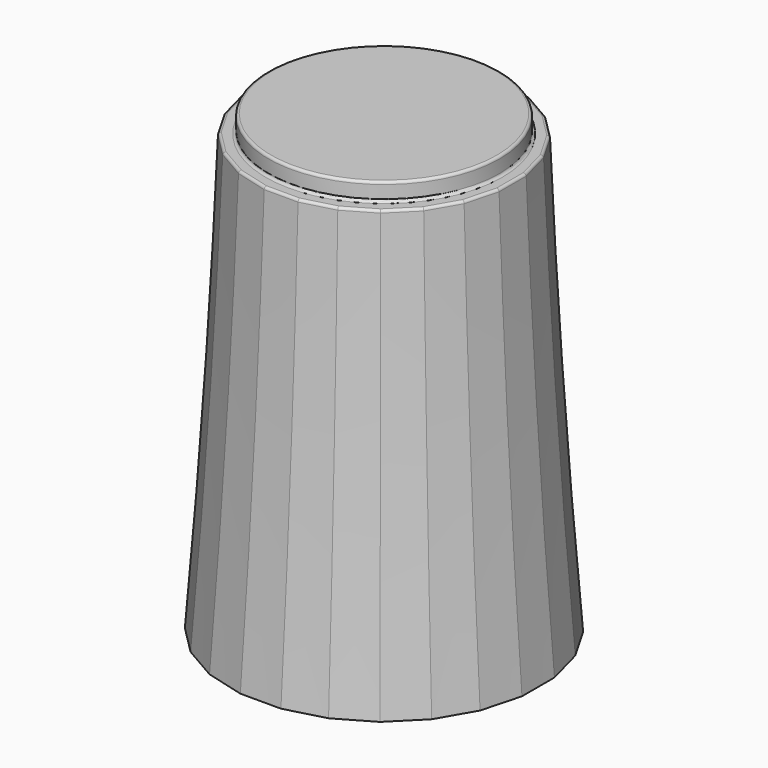
from build123d import *

# Parameters (mm, degrees)
SKETCH072_R     = 4.5
PAD018_DEPTH    = 0.7
SKETCH071_R     = 5
POCKET028_DEPTH = 1
SKETCH069_R     = 4.65
POCKET027_DEPTH = 1
POCKET029_DEPTH = 8
CHAMFER021_SIZE = 1.4
CHAMFER020_SIZE = 0.3
FILLET009_R     = 0.1


with BuildPart() as part:
    # Sketch077 → AdditiveLoft008 section 0
    with BuildSketch(Plane.XY):
        Polygon((-0.789915, 6), (-2.315914, 5.59111), (-3.684086, 4.801195), (-4.801195, 3.684086), (-5.59111, 2.315914), (-6, 0.789915), (-6, -0.789915), (-5.59111, -2.315914), (-4.801195, -3.684086), (-3.684086, -4.801195), (-2.315914, -5.59111), (-0.789915, -6), (0.789915, -6), (2.315914, -5.59111), (3.684086, -4.801195), (4.801195, -3.684086), (5.59111, -2.315914), (6, -0.789915), (6, 0.789915), (5.59111, 2.315914), (4.801195, 3.684086), (3.684086, 4.801195), (2.315914, 5.59111), (0.789915, 6), align=None)
    # Sketch076 → AdditiveLoft008 section 1
    with BuildSketch(Plane.XY.offset(7)):
        Polygon((-0.724089, 5.5), (-2.122921, 5.125184), (-3.377079, 4.401095), (-4.401095, 3.377079), (-5.125184, 2.122921), (-5.5, 0.724089), (-5.5, -0.724089), (-5.125184, -2.122921), (-4.401095, -3.377079), (-3.377079, -4.401095), (-2.122921, -5.125184), (-0.724089, -5.5), (0.724089, -5.5), (2.122921, -5.125184), (3.377079, -4.401095), (4.401095, -3.377079), (5.125184, -2.122921), (5.5, -0.724089), (5.5, 0.724089), (5.125184, 2.122921), (4.401095, 3.377079), (3.377079, 4.401095), (2.122921, 5.125184), (0.724089, 5.5), align=None)
    # Sketch078 → AdditiveLoft008 section 2
    with BuildSketch(Plane.XY.offset(17)):
        Polygon((-4.659258, 1.929928), (-5, 0.658262), (-5, -0.658262), (-4.659258, -1.929928), (-4.000996, -3.070072), (-3.070072, -4.000996), (-1.929928, -4.659258), (-0.658262, -5), (0.658262, -5), (1.929928, -4.659258), (3.070072, -4.000996), (4.000996, -3.070072), (4.659258, -1.929928), (5, -0.658262), (5, 0.658262), (4.659258, 1.929928), (4.000996, 3.070072), (3.070072, 4.000996), (1.929928, 4.659258), (0.658262, 5), (-0.658262, 5), (-1.929928, 4.659258), (-3.070072, 4.000996), (-4.000996, 3.070072), align=None)
    loft()

    # Sketch072 (on Face3 of AdditiveLoft008) → Pad018 (new body)
    with BuildSketch(Plane.XY.offset(17)):
        Circle(SKETCH072_R)
    extrude(amount=PAD018_DEPTH)

    # Sketch071 (on Face1 of Pad018) → Pocket028 (cut)
    with BuildSketch(Plane(origin=(0, 0, 0), x_dir=(1, 0, 0), z_dir=(0, 0, -1))):
        Circle(SKETCH071_R)
    extrude(amount=-POCKET028_DEPTH, mode=Mode.SUBTRACT)

    # Sketch069 (on Face28 of Pocket028) → Pocket027 (cut)
    with BuildSketch(Plane(origin=(0, 0, 1), x_dir=(1, 0, 0), z_dir=(0, 0, -1))):
        Circle(SKETCH069_R)
    extrude(amount=-POCKET027_DEPTH, mode=Mode.SUBTRACT)

    # Sketch070 (on Face32 of Pocket027) → Pocket029 (cut)
    with BuildSketch(Plane(origin=(0, 0, 2), x_dir=(1, 0, 0), z_dir=(0, 0, -1))):
        with BuildLine():
            ThreePointArc((-1.741757, 2.442598), (0, -3), (1.741757, 2.442598))
            Line((-1.741757, 2.442598), (1.741757, 2.442598))
        make_face()
    extrude(amount=-POCKET029_DEPTH, mode=Mode.SUBTRACT)

    # Chamfer021
    chamfer021_edges = [part.edges().sort_by_distance(p)[0] for p in [
        (0, 3, 2),
        (0, -2.442598, 2),
    ]]
    chamfer(chamfer021_edges, length=CHAMFER021_SIZE)

    # Chamfer020
    chamfer020_edges = [part.edges().sort_by_distance(p)[0] for p in [
        (-4.65, 0, 1),
    ]]
    chamfer(chamfer020_edges, length=CHAMFER020_SIZE)

    # Fillet009
    fillet009_edges = [part.edges().sort_by_distance(p)[0] for p in [
        (-4.5, 0, 17.7),
        (-4.829629, 1.294095, 17),
        (-4.330127, 2.5, 17),
        (-5, 0, 17),
        (-3.535534, 3.535534, 17),
        (-4.829629, -1.294095, 17),
        (-2.5, 4.330127, 17),
        (-4.330127, -2.5, 17),
        (-1.294095, 4.829629, 17),
        (-3.535534, -3.535534, 17),
        (0, 5, 17),
        (-2.5, -4.330127, 17),
        (1.294095, 4.829629, 17),
        (-1.294095, -4.829629, 17),
        (2.5, 4.330127, 17),
        (0, -5, 17),
        (3.535534, 3.535534, 17),
        (1.294095, -4.829629, 17),
        (4.330127, 2.5, 17),
        (2.5, -4.330127, 17),
        (4.829629, 1.294095, 17),
        (3.535534, -3.535534, 17),
        (5, 0, 17),
        (4.330127, -2.5, 17),
        (4.829629, -1.294095, 17),
        (-4.5, 0, 17),
    ]]
    fillet(fillet009_edges, radius=FILLET009_R)


solid = part.part
